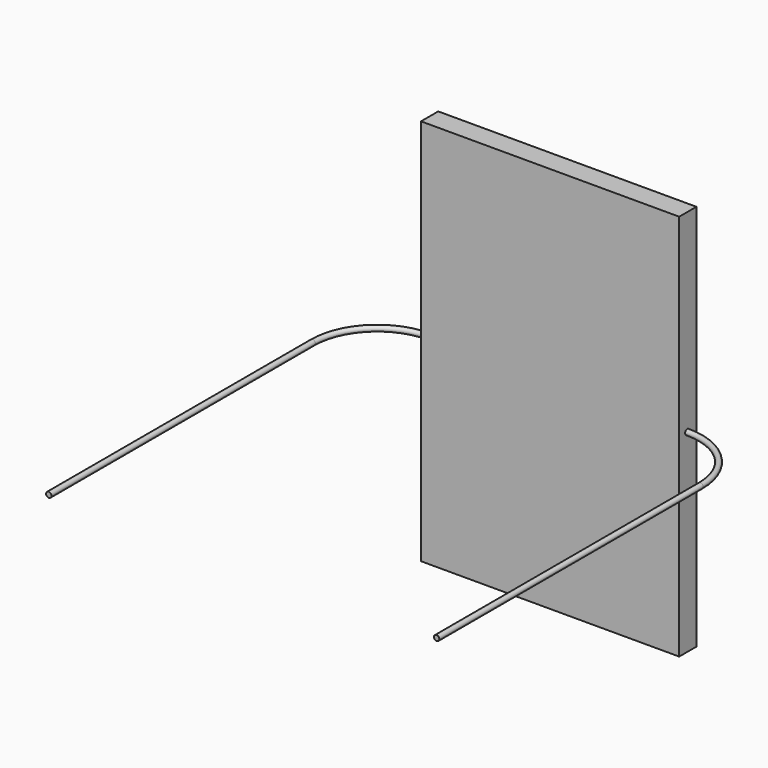
from build123d import *

# Parameters (mm, degrees)
F1_R     = 3.175
F3_W     = 304.8
F3_H     = 25.4
F4_DEPTH = 228.6


with BuildPart() as f2:
    # F2: sweep along a path in F0
    with BuildLine(Plane.XY) as f2_path:
        Line((228.9410829544, -232.7981889248), (228.9410829544, 156.5981889248))
        ThreePointArc((228.9410829544, 156.5981889248), (206.6226196808, 210.4797256512), (152.7410829544, 232.7981889248))
        Line((152.7410829544, 232.7981889248), (-152.7410829544, 232.7981889248))
        ThreePointArc((-152.7410829544, 232.7981889248), (-206.6226196808, 210.4797256512), (-228.9410829544, 156.5981889248))
        Line((-228.9410829544, 156.5981889248), (-228.9410829544, -232.7981889248))
    # F1 (on Front) → F2 (sweep)
    with BuildSketch(Plane.XZ):
        with Locations((-228.9410680532, 0)):
            Circle(F1_R)
    sweep(path=f2_path.line)

    # F3 (on Top) → F4 (join, symmetric)
    with BuildSketch(Plane.XY):
        with Locations((0, 233.5601756576)):
            Rectangle(F3_W, F3_H)
    extrude(amount=F4_DEPTH, both=True)


solid = f2.part
